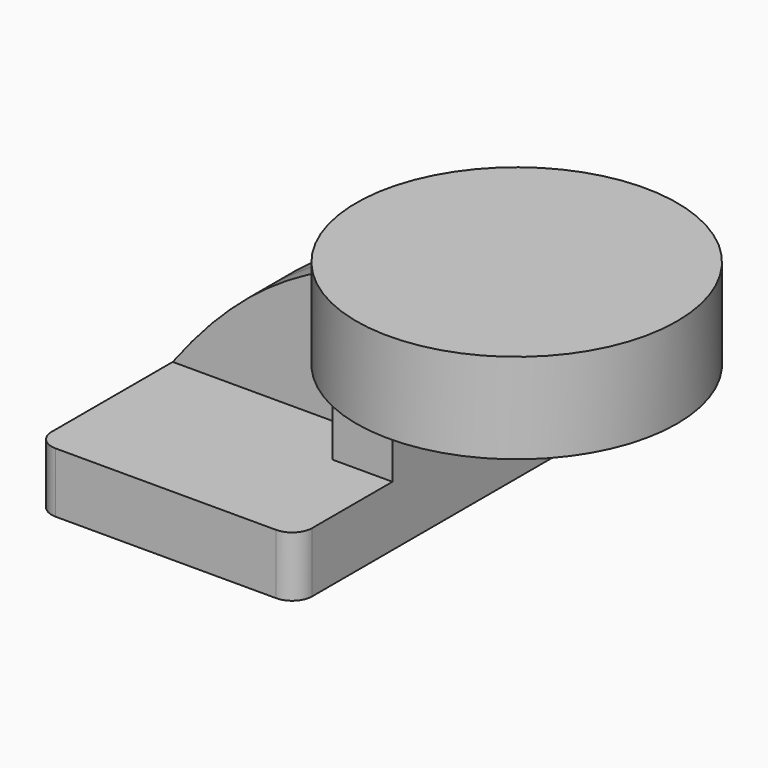
from build123d import *

# Parameters (mm, degrees)
F1_DEPTH = 63.5
F0_W     = 26.9485112596
F0_H     = 19.05
F2_DEPTH = 25.4
F3_DEPTH = 9.2075
F4_R     = 6.35


with BuildPart() as f1:
    # F0 (on Front) → F1 (new body, symmetric)
    with BuildSketch(Plane.XZ):
        Polygon((-41.275, 9.525), (-41.275, -9.525), (41.275, -9.525), (41.275, 9.525), (22.225, 9.525), align=None)
    extrude(amount=F1_DEPTH, both=True)

    # F0 (on Front) → F2 (join, symmetric)
    with BuildSketch(Plane.XZ):
        with BuildLine():
            Line((22.225, 9.525), (41.275, 9.525))
            Line((41.275, 9.525), (41.275, 27.0002))
            ThreePointArc((41.275, 27.0002), (45.9246798487, 38.2255201513), (57.15, 42.8752))
            Line((57.15, 42.8752), (60.325, 42.8752))
            Line((60.325, 42.8752), (60.325, 61.9252))
            Line((60.325, 61.9252), (57.15, 61.9252))
            add(Edge.make_bspline(
                [(52.2492096808, 61.5796430153), (53.8592655061, 61.7142223816), (55.4926449754, 61.8294562532), (57.15, 61.9252)],
                knots=[107.5950176297, 107.5950176297, 107.5950176297, 107.5950176297, 111.5045361635, 111.5045361635, 111.5045361635, 111.5045361635], degree=3))
            ThreePointArc((52.2492096808, 61.5796430153), (30.7784649015, 49.8977492477), (22.225, 27.0002))
            Line((22.225, 27.0002), (22.225, 9.525))
        make_face()
        with Locations((73.7992556298, 52.4002)):
            Rectangle(F0_W, F0_H)
    extrude(amount=F2_DEPTH, both=True)

    # F0 (on Front) → F3 (join, symmetric)
    with BuildSketch(Plane.XZ):
        with BuildLine():
            add(Edge.make_bspline(
                [(-41.275, 9.525), (-18.7066018439, 39.5193474562), (7.9383863878, 57.8758444109), (52.2492096808, 61.5796430153)],
                knots=[0, 0, 0, 0, 107.5950176297, 107.5950176297, 107.5950176297, 107.5950176297], degree=3))
            Line((-41.275, 9.525), (22.225, 9.525))
            Line((22.225, 9.525), (22.225, 27.0002))
            ThreePointArc((22.225, 27.0002), (30.7784649015, 49.8977492477), (52.2492096808, 61.5796430153))
        make_face()
    extrude(amount=F3_DEPTH, both=True)

    # F4
    f4_edges = [f1.edges().sort_by_distance(p)[0] for p in [
        (-41.275, -63.5, 0),
        (41.275, -63.5, 0),
        (41.275, 63.5, 0),
        (-41.275, 63.5, 0),
    ]]
    fillet(f4_edges, radius=F4_R)

    # F0 (on Front) → F5 (revolve)
    with BuildSketch(Plane.XZ):
        Polygon((60.325, 66.675), (60.325, 61.9252), (87.2735112596, 61.9252), (87.2735112596, 42.8752), (60.325, 42.8752), (60.325, 38.1), (111.125, 38.1), (111.125, 66.675), align=None)
    revolve(axis=Axis((60.325, 0, 52.3875), (0, 0, 1)))


solid = f1.part
